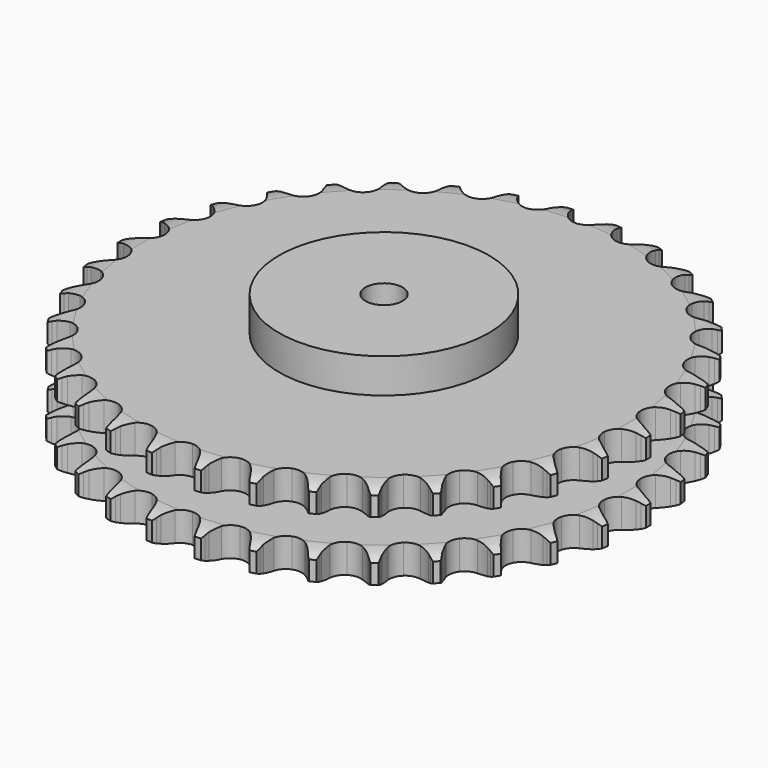
from build123d import *

# Parameters (mm, degrees)
PAD_DEPTH         = 72
SKETCH001_R       = 85
PAD001_DEPTH      = 100
SKETCH002_R       = 15
POCKET_DEPTH      = 0.001
POCKET_DEPTH_BACK = 100.001


with BuildPart() as part:
    # Sprocket → Pad (new body)
    with BuildSketch(Plane.XY):
        with BuildLine():
            ThreePointArc((-20.121709, 217.147822), (-17.737443, 213.973914), (-16.002694, 210.403331))
            Line((-16.002694, 210.403331), (-14.763551, 207.073471))
            ThreePointArc((-14.763551, 207.073471), (-12.805099, 202.776041), (-10.255365, 198.80083))
            ThreePointArc((-10.255365, 198.80083), (-5.735558, 195.018136), (0, 193.661375))
            ThreePointArc((0, 193.661375), (5.735558, 195.018136), (10.255365, 198.80083))
            ThreePointArc((10.255365, 198.80083), (12.805099, 202.776041), (14.763551, 207.073471))
            Line((14.763551, 207.073471), (16.002694, 210.403331))
            ThreePointArc((16.002694, 210.403331), (17.737443, 213.973914), (20.121709, 217.147822))
            ThreePointArc((20.121709, 217.147822), (21.882174, 213.589848), (22.931293, 209.761302))
            Line((22.931293, 209.761302), (23.537477, 206.260447))
            ThreePointArc((23.537477, 206.260447), (24.672931, 201.676324), (26.448809, 197.300287))
            ThreePointArc((26.448809, 197.300287), (30.196589, 192.751488), (35.585184, 190.363922))
            ThreePointArc((35.585184, 190.363922), (41.472388, 190.643676), (46.610304, 193.53145))
            Line((46.610304, 193.53145), (52.561824, 200.834857))
            ThreePointArc((52.561824, 200.834857), (53.435911, 202.382146), (54.391728, 203.880328))
            ThreePointArc((54.391728, 203.880328), (56.753033, 207.071355), (59.679906, 209.753114))
            ThreePointArc((59.679906, 209.753114), (60.75662, 205.932236), (61.084383, 201.976103))
            Line((61.084383, 201.976103), (61.036964, 198.423471))
            ThreePointArc((61.036964, 198.423471), (61.310755, 193.708762), (62.252301, 189.080919))
            ThreePointArc((62.252301, 189.080919), (65.100428, 183.920919), (69.958558, 180.583854))
            ThreePointArc((69.958558, 180.583854), (75.796925, 179.777074), (81.377986, 181.671589))
            Line((81.377986, 181.671589), (88.570168, 187.757052))
            ThreePointArc((88.570168, 187.757052), (89.713685, 189.117383), (90.928517, 190.414424))
            ThreePointArc((90.928517, 190.414424), (93.835967, 193.117229), (97.205776, 195.215514))
            ThreePointArc((97.205776, 195.215514), (97.562072, 191.261849), (97.157316, 187.31285))
            Line((97.157316, 187.31285), (96.457911, 183.829422))
            ThreePointArc((96.457911, 183.829422), (95.860715, 179.144681), (95.935864, 174.422626))
            ThreePointArc((95.935864, 174.422626), (97.78735, 168.827143), (101.949577, 164.65422))
            ThreePointArc((101.949577, 164.65422), (107.540289, 162.788379), (113.374438, 163.625119))
            Line((113.374438, 163.625119), (121.56236, 168.285405))
            ThreePointArc((121.56236, 168.285405), (122.936367, 169.412454), (124.368845, 170.464185))
            ThreePointArc((124.368845, 170.464185), (127.723429, 172.586728), (131.42142, 174.030085))
            ThreePointArc((131.42142, 174.030085), (131.045165, 170.078269), (129.921674, 166.270883))
            Line((129.921674, 166.270883), (128.594099, 162.975282))
            ThreePointArc((128.594099, 162.975282), (127.146253, 158.480042), (126.352448, 153.824581))
            ThreePointArc((126.352448, 153.824581), (127.14424, 147.984162), (130.468825, 143.117483))
            ThreePointArc((130.468825, 143.117483), (135.621497, 140.256121), (141.510059, 140.006592))
            Line((141.510059, 140.006592), (150.414892, 143.083002))
            ThreePointArc((150.414892, 143.083002), (151.972598, 143.938387), (153.573941, 144.708993))
            ThreePointArc((153.573941, 144.708993), (157.261423, 146.178992), (161.161664, 146.918269))
            ThreePointArc((161.161664, 146.918269), (160.065672, 143.102877), (158.261706, 139.56676))
            Line((158.261706, 139.56676), (156.35117, 136.571215))
            ThreePointArc((156.35117, 136.571215), (154.101977, 132.418556), (152.46625, 127.988224))
            ThreePointArc((152.46625, 127.988224), (152.171386, 122.101758), (154.545114, 116.707052))
            ThreePointArc((154.545114, 116.707052), (159.084278, 112.947609), (164.826725, 111.620309))
            Line((164.826725, 111.620309), (174.145225, 113.008078))
            ThreePointArc((174.145225, 113.008078), (175.833585, 113.56267), (177.549261, 114.02591))
            ThreePointArc((177.549261, 114.02591), (181.444067, 114.793307), (185.413742, 114.803329))
            ThreePointArc((185.413742, 114.803329), (183.635334, 111.254289), (181.212324, 108.109859))
            Line((181.212324, 108.109859), (178.783889, 105.516378))
            ThreePointArc((178.783889, 105.516378), (175.809944, 101.847714), (173.387996, 97.793381))
            ThreePointArc((173.387996, 97.793381), (172.016518, 92.061324), (173.358554, 86.322303))
            ThreePointArc((173.358554, 86.322303), (177.129635, 81.792802), (182.530415, 79.432929))
            Line((182.530415, 79.432929), (191.945251, 79.084799))
            ThreePointArc((191.945251, 79.084799), (193.70677, 79.319714), (195.478353, 79.459811))
            ThreePointArc((195.478353, 79.459811), (199.447852, 79.498472), (203.351777, 78.778898))
            ThreePointArc((203.351777, 78.778898), (200.951516, 75.617069), (197.991974, 72.971406))
            Line((197.991974, 72.971406), (195.128337, 70.868308))
            ThreePointArc((195.128337, 70.868308), (191.530914, 67.808571), (188.405223, 64.268302))
            ThreePointArc((188.405223, 64.268302), (186.003834, 58.885853), (186.268477, 52.997951))
            ThreePointArc((186.268477, 52.997951), (189.143054, 47.852639), (194.01825, 44.540557))
            Line((194.01825, 44.540557), (203.208812, 42.468383))
            ThreePointArc((203.208812, 42.468383), (204.983503, 42.375619), (206.750664, 42.187804))
            ThreePointArc((206.750664, 42.187804), (210.659679, 41.496413), (214.364911, 40.071747))
            ThreePointArc((214.364911, 40.071747), (211.424534, 37.404801), (208.029245, 35.347999))
            Line((208.029245, 35.347999), (204.827924, 33.806902))
            ThreePointArc((204.827924, 33.806902), (200.729528, 31.460288), (197.006535, 28.554643))
            ThreePointArc((197.006535, 28.554643), (193.657013, 23.705095), (192.83525, 17.868817))
            ThreePointArc((192.83525, 17.868817), (194.715434, 12.282912), (198.899027, 8.13141))
            Line((198.899027, 8.13141), (207.552341, 4.405757))
            ThreePointArc((207.552341, 4.405757), (209.279769, 3.988474), (210.98233, 3.479141))
            ThreePointArc((210.98233, 3.479141), (214.697744, 2.081243), (218.078105, 0))
            ThreePointArc((218.078105, 0), (214.697744, -2.081243), (210.98233, -3.479141))
            Line((210.98233, -3.479141), (207.552341, -4.405757))
            ThreePointArc((207.552341, -4.405757), (203.092539, -5.959337), (198.899027, -8.13141))
            ThreePointArc((198.899027, -8.13141), (194.715434, -12.282912), (192.83525, -17.868817))
            ThreePointArc((192.83525, -17.868817), (193.657013, -23.705095), (197.006535, -28.554643))
            Line((197.006535, -28.554643), (204.827924, -33.806902))
            ThreePointArc((204.827924, -33.806902), (206.449264, -34.534494), (208.029245, -35.347999))
            ThreePointArc((208.029245, -35.347999), (211.424534, -37.404801), (214.364911, -40.071747))
            ThreePointArc((214.364911, -40.071747), (210.659679, -41.496413), (206.750664, -42.187804))
            Line((206.750664, -42.187804), (203.208812, -42.468383))
            ThreePointArc((203.208812, -42.468383), (198.539478, -43.176025), (194.01825, -44.540557))
            ThreePointArc((194.01825, -44.540557), (189.143054, -47.852639), (186.268477, -52.997951))
            ThreePointArc((186.268477, -52.997951), (186.003834, -58.885853), (188.405223, -64.268302))
            Line((188.405223, -64.268302), (195.128337, -70.868308))
            ThreePointArc((195.128337, -70.868308), (196.588376, -71.881431), (197.991974, -72.971406))
            ThreePointArc((197.991974, -72.971406), (200.951516, -75.617069), (203.351777, -78.778898))
            ThreePointArc((203.351777, -78.778898), (199.447852, -79.498472), (195.478353, -79.459811))
            Line((195.478353, -79.459811), (191.945251, -79.084799))
            ThreePointArc((191.945251, -79.084799), (187.225392, -78.922404), (182.530415, -79.432929))
            ThreePointArc((182.530415, -79.432929), (177.129635, -81.792802), (173.358554, -86.322303))
            ThreePointArc((173.358554, -86.322303), (172.016518, -92.061324), (173.387996, -97.793381))
            Line((173.387996, -97.793381), (178.783889, -105.516378))
            ThreePointArc((178.783889, -105.516378), (180.032907, -106.780533), (181.212324, -108.109859))
            ThreePointArc((181.212324, -108.109859), (183.635334, -111.254289), (185.413742, -114.803329))
            ThreePointArc((185.413742, -114.803329), (181.444067, -114.793307), (177.549261, -114.02591))
            Line((177.549261, -114.02591), (174.145225, -113.008078))
            ThreePointArc((174.145225, -113.008078), (169.53557, -111.981176), (164.826725, -111.620309))
            ThreePointArc((164.826725, -111.620309), (159.084278, -112.947609), (154.545114, -116.707052))
            ThreePointArc((154.545114, -116.707052), (152.171386, -122.101758), (152.46625, -127.988224))
            Line((152.46625, -127.988224), (156.35117, -136.571215))
            ThreePointArc((156.35117, -136.571215), (157.346633, -138.043351), (158.261706, -139.56676))
            ThreePointArc((158.261706, -139.56676), (160.065672, -143.102877), (161.161664, -146.918269))
            ThreePointArc((161.161664, -146.918269), (157.261423, -146.178992), (153.573941, -144.708993))
            Line((153.573941, -144.708993), (150.414892, -143.083002))
            ThreePointArc((150.414892, -143.083002), (146.072418, -141.226563), (141.510059, -140.006592))
            ThreePointArc((141.510059, -140.006592), (135.621497, -140.256121), (130.468825, -143.117483))
            ThreePointArc((130.468825, -143.117483), (127.14424, -147.984162), (126.352448, -153.824581))
            Line((126.352448, -153.824581), (128.594099, -162.975282))
            ThreePointArc((128.594099, -162.975282), (129.302109, -164.605269), (129.921674, -166.270883))
            ThreePointArc((129.921674, -166.270883), (131.045165, -170.078269), (131.42142, -174.030085))
            ThreePointArc((131.42142, -174.030085), (127.723429, -172.586728), (124.368845, -170.464185))
            Line((124.368845, -170.464185), (121.56236, -168.285405))
            ThreePointArc((121.56236, -168.285405), (117.634945, -165.662648), (113.374438, -163.625119))
            ThreePointArc((113.374438, -163.625119), (107.540289, -162.788379), (101.949577, -164.65422))
            ThreePointArc((101.949577, -164.65422), (97.78735, -168.827143), (95.935864, -174.422626))
            Line((95.935864, -174.422626), (96.457911, -183.829422))
            ThreePointArc((96.457911, -183.829422), (96.854356, -185.561751), (97.157316, -187.31285))
            ThreePointArc((97.157316, -187.31285), (97.562072, -191.261849), (97.205776, -195.215514))
            ThreePointArc((97.205776, -195.215514), (93.835967, -193.117229), (90.928517, -190.414424))
            Line((90.928517, -190.414424), (88.570168, -187.757052))
            ThreePointArc((88.570168, -187.757052), (85.191554, -184.457291), (81.377986, -181.671589))
            ThreePointArc((81.377986, -181.671589), (75.796925, -179.777074), (69.958558, -180.583854))
            ThreePointArc((69.958558, -180.583854), (65.100428, -183.920919), (62.252301, -189.080919))
            Line((62.252301, -189.080919), (61.036964, -198.423471))
            ThreePointArc((61.036964, -198.423471), (61.108344, -200.199151), (61.084383, -201.976103))
            ThreePointArc((61.084383, -201.976103), (60.75662, -205.932236), (59.679906, -209.753114))
            ThreePointArc((59.679906, -209.753114), (56.753033, -207.071355), (54.391728, -203.880328))
            Line((54.391728, -203.880328), (52.561824, -200.834857))
            ThreePointArc((52.561824, -200.834857), (49.847068, -196.970462), (46.610304, -193.53145))
            ThreePointArc((46.610304, -193.53145), (41.472388, -190.643676), (35.585184, -190.363922))
            ThreePointArc((35.585184, -190.363922), (30.196589, -192.751488), (26.448809, -197.300287))
            Line((26.448809, -197.300287), (23.537477, -206.260447))
            ThreePointArc((23.537477, -206.260447), (23.281361, -208.019009), (22.931293, -209.761302))
            ThreePointArc((22.931293, -209.761302), (21.882174, -213.589848), (20.121709, -217.147822))
            ThreePointArc((20.121709, -217.147822), (17.737443, -213.973914), (16.002694, -210.403331))
            Line((16.002694, -210.403331), (14.763551, -207.073471))
            ThreePointArc((14.763551, -207.073471), (12.805099, -202.776041), (10.255365, -198.80083))
            ThreePointArc((10.255365, -198.80083), (5.735558, -195.018136), (0, -193.661375))
            ThreePointArc((0, -193.661375), (-5.735558, -195.018136), (-10.255365, -198.80083))
            Line((-10.255365, -198.80083), (-14.763551, -207.073471))
            ThreePointArc((-14.763551, -207.073471), (-15.338441, -208.755029), (-16.002694, -210.403331))
            ThreePointArc((-16.002694, -210.403331), (-17.737443, -213.973914), (-20.121709, -217.147822))
            ThreePointArc((-20.121709, -217.147822), (-21.882174, -213.589848), (-22.931293, -209.761302))
            Line((-22.931293, -209.761302), (-23.537477, -206.260447))
            ThreePointArc((-23.537477, -206.260447), (-24.672931, -201.676324), (-26.448809, -197.300287))
            ThreePointArc((-26.448809, -197.300287), (-30.196589, -192.751488), (-35.585184, -190.363922))
            ThreePointArc((-35.585184, -190.363922), (-41.472388, -190.643676), (-46.610304, -193.53145))
            Line((-46.610304, -193.53145), (-52.561824, -200.834857))
            ThreePointArc((-52.561824, -200.834857), (-53.435911, -202.382146), (-54.391728, -203.880328))
            ThreePointArc((-54.391728, -203.880328), (-56.753033, -207.071355), (-59.679906, -209.753114))
            ThreePointArc((-59.679906, -209.753114), (-60.75662, -205.932236), (-61.084383, -201.976103))
            Line((-61.084383, -201.976103), (-61.036964, -198.423471))
            ThreePointArc((-61.036964, -198.423471), (-61.310755, -193.708762), (-62.252301, -189.080919))
            ThreePointArc((-62.252301, -189.080919), (-65.100428, -183.920919), (-69.958558, -180.583854))
            ThreePointArc((-69.958558, -180.583854), (-75.796925, -179.777074), (-81.377986, -181.671589))
            Line((-81.377986, -181.671589), (-88.570168, -187.757052))
            ThreePointArc((-88.570168, -187.757052), (-89.713685, -189.117383), (-90.928517, -190.414424))
            ThreePointArc((-90.928517, -190.414424), (-93.835967, -193.117229), (-97.205776, -195.215514))
            ThreePointArc((-97.205776, -195.215514), (-97.562072, -191.261849), (-97.157316, -187.31285))
            Line((-97.157316, -187.31285), (-96.457911, -183.829422))
            ThreePointArc((-96.457911, -183.829422), (-95.860715, -179.144681), (-95.935864, -174.422626))
            ThreePointArc((-95.935864, -174.422626), (-97.78735, -168.827143), (-101.949577, -164.65422))
            ThreePointArc((-101.949577, -164.65422), (-107.540289, -162.788379), (-113.374438, -163.625119))
            Line((-113.374438, -163.625119), (-121.56236, -168.285405))
            ThreePointArc((-121.56236, -168.285405), (-122.936367, -169.412454), (-124.368845, -170.464185))
            ThreePointArc((-124.368845, -170.464185), (-127.723429, -172.586728), (-131.42142, -174.030085))
            ThreePointArc((-131.42142, -174.030085), (-131.045165, -170.078269), (-129.921674, -166.270883))
            Line((-129.921674, -166.270883), (-128.594099, -162.975282))
            ThreePointArc((-128.594099, -162.975282), (-127.146253, -158.480042), (-126.352448, -153.824581))
            ThreePointArc((-126.352448, -153.824581), (-127.14424, -147.984162), (-130.468825, -143.117483))
            ThreePointArc((-130.468825, -143.117483), (-135.621497, -140.256121), (-141.510059, -140.006592))
            Line((-141.510059, -140.006592), (-150.414892, -143.083002))
            ThreePointArc((-150.414892, -143.083002), (-151.972598, -143.938387), (-153.573941, -144.708993))
            ThreePointArc((-153.573941, -144.708993), (-157.261423, -146.178992), (-161.161664, -146.918269))
            ThreePointArc((-161.161664, -146.918269), (-160.065672, -143.102877), (-158.261706, -139.56676))
            Line((-158.261706, -139.56676), (-156.35117, -136.571215))
            ThreePointArc((-156.35117, -136.571215), (-154.101977, -132.418556), (-152.46625, -127.988224))
            ThreePointArc((-152.46625, -127.988224), (-152.171386, -122.101758), (-154.545114, -116.707052))
            ThreePointArc((-154.545114, -116.707052), (-159.084278, -112.947609), (-164.826725, -111.620309))
            Line((-164.826725, -111.620309), (-174.145225, -113.008078))
            ThreePointArc((-174.145225, -113.008078), (-175.833585, -113.56267), (-177.549261, -114.02591))
            ThreePointArc((-177.549261, -114.02591), (-181.444067, -114.793307), (-185.413742, -114.803329))
            ThreePointArc((-185.413742, -114.803329), (-183.635334, -111.254289), (-181.212324, -108.109859))
            Line((-181.212324, -108.109859), (-178.783889, -105.516378))
            ThreePointArc((-178.783889, -105.516378), (-175.809944, -101.847714), (-173.387996, -97.793381))
            ThreePointArc((-173.387996, -97.793381), (-172.016518, -92.061324), (-173.358554, -86.322303))
            ThreePointArc((-173.358554, -86.322303), (-177.129635, -81.792802), (-182.530415, -79.432929))
            Line((-182.530415, -79.432929), (-191.945251, -79.084799))
            ThreePointArc((-191.945251, -79.084799), (-193.70677, -79.319714), (-195.478353, -79.459811))
            ThreePointArc((-195.478353, -79.459811), (-199.447852, -79.498472), (-203.351777, -78.778898))
            ThreePointArc((-203.351777, -78.778898), (-200.951516, -75.617069), (-197.991974, -72.971406))
            Line((-197.991974, -72.971406), (-195.128337, -70.868308))
            ThreePointArc((-195.128337, -70.868308), (-191.530914, -67.808571), (-188.405223, -64.268302))
            ThreePointArc((-188.405223, -64.268302), (-186.003834, -58.885853), (-186.268477, -52.997951))
            ThreePointArc((-186.268477, -52.997951), (-189.143054, -47.852639), (-194.01825, -44.540557))
            Line((-194.01825, -44.540557), (-203.208812, -42.468383))
            ThreePointArc((-203.208812, -42.468383), (-204.983503, -42.375619), (-206.750664, -42.187804))
            ThreePointArc((-206.750664, -42.187804), (-210.659679, -41.496413), (-214.364911, -40.071747))
            ThreePointArc((-214.364911, -40.071747), (-211.424534, -37.404801), (-208.029245, -35.347999))
            Line((-208.029245, -35.347999), (-204.827924, -33.806902))
            ThreePointArc((-204.827924, -33.806902), (-200.729528, -31.460288), (-197.006535, -28.554643))
            ThreePointArc((-197.006535, -28.554643), (-193.657013, -23.705095), (-192.83525, -17.868817))
            ThreePointArc((-192.83525, -17.868817), (-194.715434, -12.282912), (-198.899027, -8.13141))
            Line((-198.899027, -8.13141), (-207.552341, -4.405757))
            ThreePointArc((-207.552341, -4.405757), (-209.279769, -3.988474), (-210.98233, -3.479141))
            ThreePointArc((-210.98233, -3.479141), (-214.697744, -2.081243), (-218.078105, 0))
            ThreePointArc((-218.078105, 0), (-214.697744, 2.081243), (-210.98233, 3.479141))
            Line((-210.98233, 3.479141), (-207.552341, 4.405757))
            ThreePointArc((-207.552341, 4.405757), (-203.092539, 5.959337), (-198.899027, 8.13141))
            ThreePointArc((-198.899027, 8.13141), (-194.715434, 12.282912), (-192.83525, 17.868817))
            ThreePointArc((-192.83525, 17.868817), (-193.657013, 23.705095), (-197.006535, 28.554643))
            Line((-197.006535, 28.554643), (-204.827924, 33.806902))
            ThreePointArc((-204.827924, 33.806902), (-206.449264, 34.534494), (-208.029245, 35.347999))
            ThreePointArc((-208.029245, 35.347999), (-211.424534, 37.404801), (-214.364911, 40.071747))
            ThreePointArc((-214.364911, 40.071747), (-210.659679, 41.496413), (-206.750664, 42.187804))
            Line((-206.750664, 42.187804), (-203.208812, 42.468383))
            ThreePointArc((-203.208812, 42.468383), (-198.539478, 43.176025), (-194.01825, 44.540557))
            ThreePointArc((-194.01825, 44.540557), (-189.143054, 47.852639), (-186.268477, 52.997951))
            ThreePointArc((-186.268477, 52.997951), (-186.003834, 58.885853), (-188.405223, 64.268302))
            Line((-188.405223, 64.268302), (-195.128337, 70.868308))
            ThreePointArc((-195.128337, 70.868308), (-196.588376, 71.881431), (-197.991974, 72.971406))
            ThreePointArc((-197.991974, 72.971406), (-200.951516, 75.617069), (-203.351777, 78.778898))
            ThreePointArc((-203.351777, 78.778898), (-199.447852, 79.498472), (-195.478353, 79.459811))
            Line((-195.478353, 79.459811), (-191.945251, 79.084799))
            ThreePointArc((-191.945251, 79.084799), (-187.225392, 78.922404), (-182.530415, 79.432929))
            ThreePointArc((-182.530415, 79.432929), (-177.129635, 81.792802), (-173.358554, 86.322303))
            ThreePointArc((-173.358554, 86.322303), (-172.016518, 92.061324), (-173.387996, 97.793381))
            Line((-173.387996, 97.793381), (-178.783889, 105.516378))
            ThreePointArc((-178.783889, 105.516378), (-180.032907, 106.780533), (-181.212324, 108.109859))
            ThreePointArc((-181.212324, 108.109859), (-183.635334, 111.254289), (-185.413742, 114.803329))
            ThreePointArc((-185.413742, 114.803329), (-181.444067, 114.793307), (-177.549261, 114.02591))
            Line((-177.549261, 114.02591), (-174.145225, 113.008078))
            ThreePointArc((-174.145225, 113.008078), (-169.53557, 111.981176), (-164.826725, 111.620309))
            ThreePointArc((-164.826725, 111.620309), (-159.084278, 112.947609), (-154.545114, 116.707052))
            ThreePointArc((-154.545114, 116.707052), (-152.171386, 122.101758), (-152.46625, 127.988224))
            Line((-152.46625, 127.988224), (-156.35117, 136.571215))
            ThreePointArc((-156.35117, 136.571215), (-157.346633, 138.043351), (-158.261706, 139.56676))
            ThreePointArc((-158.261706, 139.56676), (-160.065672, 143.102877), (-161.161664, 146.918269))
            ThreePointArc((-161.161664, 146.918269), (-157.261423, 146.178992), (-153.573941, 144.708993))
            Line((-153.573941, 144.708993), (-150.414892, 143.083002))
            ThreePointArc((-150.414892, 143.083002), (-146.072418, 141.226563), (-141.510059, 140.006592))
            ThreePointArc((-141.510059, 140.006592), (-135.621497, 140.256121), (-130.468825, 143.117483))
            ThreePointArc((-130.468825, 143.117483), (-127.14424, 147.984162), (-126.352448, 153.824581))
            Line((-126.352448, 153.824581), (-128.594099, 162.975282))
            ThreePointArc((-128.594099, 162.975282), (-129.302109, 164.605269), (-129.921674, 166.270883))
            ThreePointArc((-129.921674, 166.270883), (-131.045165, 170.078269), (-131.42142, 174.030085))
            ThreePointArc((-131.42142, 174.030085), (-127.723429, 172.586728), (-124.368845, 170.464185))
            Line((-124.368845, 170.464185), (-121.56236, 168.285405))
            ThreePointArc((-121.56236, 168.285405), (-117.634945, 165.662648), (-113.374438, 163.625119))
            ThreePointArc((-113.374438, 163.625119), (-107.540289, 162.788379), (-101.949577, 164.65422))
            ThreePointArc((-101.949577, 164.65422), (-97.78735, 168.827143), (-95.935864, 174.422626))
            Line((-95.935864, 174.422626), (-96.457911, 183.829422))
            ThreePointArc((-96.457911, 183.829422), (-96.854356, 185.561751), (-97.157316, 187.31285))
            ThreePointArc((-97.157316, 187.31285), (-97.562072, 191.261849), (-97.205776, 195.215514))
            ThreePointArc((-97.205776, 195.215514), (-93.835967, 193.117229), (-90.928517, 190.414424))
            Line((-90.928517, 190.414424), (-88.570168, 187.757052))
            ThreePointArc((-88.570168, 187.757052), (-85.191554, 184.457291), (-81.377986, 181.671589))
            ThreePointArc((-81.377986, 181.671589), (-75.796925, 179.777074), (-69.958558, 180.583854))
            ThreePointArc((-69.958558, 180.583854), (-65.100428, 183.920919), (-62.252301, 189.080919))
            Line((-62.252301, 189.080919), (-61.036964, 198.423471))
            ThreePointArc((-61.036964, 198.423471), (-61.108344, 200.199151), (-61.084383, 201.976103))
            ThreePointArc((-61.084383, 201.976103), (-60.75662, 205.932236), (-59.679906, 209.753114))
            ThreePointArc((-59.679906, 209.753114), (-56.753033, 207.071355), (-54.391728, 203.880328))
            Line((-54.391728, 203.880328), (-52.561824, 200.834857))
            ThreePointArc((-52.561824, 200.834857), (-49.847068, 196.970462), (-46.610304, 193.53145))
            ThreePointArc((-46.610304, 193.53145), (-41.472388, 190.643676), (-35.585184, 190.363922))
            ThreePointArc((-35.585184, 190.363922), (-30.196589, 192.751488), (-26.448809, 197.300287))
            Line((-26.448809, 197.300287), (-23.537477, 206.260447))
            ThreePointArc((-23.537477, 206.260447), (-23.281361, 208.019009), (-22.931293, 209.761302))
            ThreePointArc((-22.931293, 209.761302), (-21.882174, 213.589848), (-20.121709, 217.147822))
        make_face()
    extrude(amount=PAD_DEPTH)

    # Sketch → Groove (revolve, cut)
    with BuildSketch(Plane.XZ):
        with BuildLine():
            ThreePointArc((196.929437, 0), (205.647235, 1.013516), (213.9, 4))
            Line((213.9, 4), (213.9, 19.6))
            ThreePointArc((213.9, 19.6), (205.647235, 22.586484), (196.929437, 23.6))
            Line((85, 23.6), (196.929437, 23.6))
            Line((85, 48.4), (85, 23.6))
            Line((196.929437, 48.4), (85, 48.4))
            ThreePointArc((196.929437, 48.4), (205.647235, 49.413516), (213.9, 52.4))
            Line((213.9, 52.4), (213.9, 68))
            ThreePointArc((213.9, 68), (205.647235, 70.986484), (196.929437, 72))
            Line((196.929437, 72), (223.9, 72))
            Line((223.9, 72), (223.9, 0))
            Line((196.929437, 0), (223.9, 0))
        make_face()
    revolve(axis=Axis((0, 0, 0), (0, 0, 1)), mode=Mode.SUBTRACT)

    # Sketch001 → Pad001 (join)
    with BuildSketch(Plane.XY):
        Circle(SKETCH001_R)
    extrude(amount=PAD001_DEPTH)

    # Sketch002 → Pocket (cut, two sides)
    with BuildSketch(Plane.XY) as pocket_sk:
        Circle(SKETCH002_R)
    extrude(amount=-POCKET_DEPTH, mode=Mode.SUBTRACT)
    extrude(pocket_sk.sketch, amount=POCKET_DEPTH_BACK, mode=Mode.SUBTRACT)


solid = part.part
